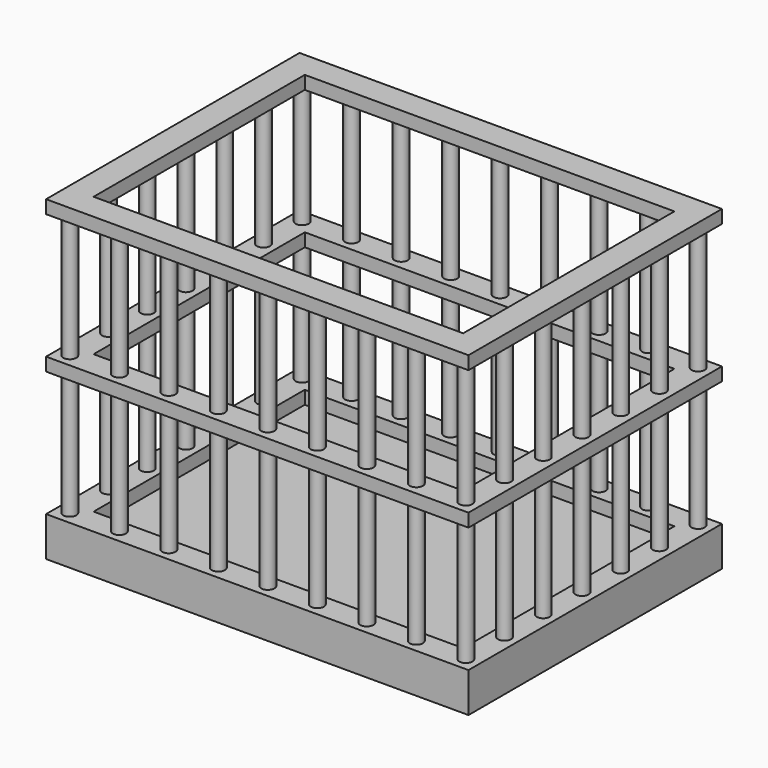
from build123d import *

# Parameters (mm, degrees)
F0_W     = 101.6
F0_H     = 76.2
F0_W_2   = 88.9
F0_H_2   = 63.5
F1_DEPTH = 1.5875
F2_R     = 1.5875
F3_DEPTH = 31.75
F4_W     = 101.6
F4_H     = 76.2
F4_W_2   = 88.9
F4_H_2   = 63.5
F5_DEPTH = 3.175
F6_W     = 101.6
F6_H     = 76.2
F6_W_2   = 88.9
F6_H_2   = 63.5
F7_DEPTH = 3.175
F8_W     = 101.6
F8_H     = 76.2
F9_DEPTH = 6.35


with BuildPart() as f1:
    # F0 (on Top) → F1 (new body, symmetric)
    with BuildSketch(Plane.XY):
        with Locations((-50.8, 38.1)):
            Rectangle(F0_W, F0_H)
        with Locations((-50.8, 38.1)):
            Rectangle(F0_W_2, F0_H_2, mode=Mode.SUBTRACT)
    extrude(amount=F1_DEPTH, both=True)

    # F2 (on Top) → F3 (join, symmetric)
    with BuildSketch(Plane.XY):
        with Locations((-98.425, 3.175)):
            Circle(F2_R)
        with Locations((-86.51875, 3.175)):
            Circle(F2_R)
        with Locations((-74.6125, 3.175)):
            Circle(F2_R)
        with Locations((-38.89375, 73.025)):
            Circle(F2_R)
        with Locations((-98.425, 26.458333)):
            Circle(F2_R)
        with Locations((-98.425, 14.816667)):
            Circle(F2_R)
        with Locations((-62.70625, 73.025)):
            Circle(F2_R)
        with Locations((-3.175, 49.741667)):
            Circle(F2_R)
        with Locations((-3.175, 61.383333)):
            Circle(F2_R)
        with Locations((-3.175, 73.025)):
            Circle(F2_R)
        with Locations((-15.08125, 73.025)):
            Circle(F2_R)
        with Locations((-50.8, 3.175)):
            Circle(F2_R)
        with Locations((-62.70625, 3.175)):
            Circle(F2_R)
        with Locations((-26.9875, 73.025)):
            Circle(F2_R)
        with Locations((-3.175, 14.816667)):
            Circle(F2_R)
        with Locations((-3.175, 26.458333)):
            Circle(F2_R)
        with Locations((-3.175, 38.1)):
            Circle(F2_R)
        with Locations((-3.175, 3.175)):
            Circle(F2_R)
        with Locations((-15.08125, 3.175)):
            Circle(F2_R)
        with Locations((-26.9875, 3.175)):
            Circle(F2_R)
        with Locations((-38.89375, 3.175)):
            Circle(F2_R)
        with Locations((-98.425, 49.741667)):
            Circle(F2_R)
        with Locations((-74.6125, 73.025)):
            Circle(F2_R)
        with Locations((-98.425, 38.1)):
            Circle(F2_R)
        with Locations((-50.8, 73.025)):
            Circle(F2_R)
        with Locations((-98.425, 73.025)):
            Circle(F2_R)
        with Locations((-86.51875, 73.025)):
            Circle(F2_R)
        with Locations((-98.425, 61.383333)):
            Circle(F2_R)
    extrude(amount=F3_DEPTH, both=True)

    # F4 (on face) → F5 (join)
    with BuildSketch(Plane.XY.offset(31.75)):
        with Locations((-50.8, 38.1)):
            Rectangle(F4_W, F4_H)
        with Locations((-50.8, 38.1)):
            Rectangle(F4_W_2, F4_H_2, mode=Mode.SUBTRACT)
    extrude(amount=F5_DEPTH)

    # F6 (on face) → F7 (join)
    with BuildSketch(Plane(origin=(0, 0, -31.75), x_dir=(1, 0, 0), z_dir=(0, 0, -1))):
        with Locations((-50.8, -38.1)):
            Rectangle(F6_W, F6_H)
        with Locations((-50.8, -38.1)):
            Rectangle(F6_W_2, F6_H_2, mode=Mode.SUBTRACT)
    extrude(amount=F7_DEPTH)

    # F8 (on face) → F9 (join)
    with BuildSketch(Plane(origin=(0, 0, -34.925), x_dir=(1, 0, 0), z_dir=(0, 0, -1))):
        with Locations((-50.8, -38.1)):
            Rectangle(F8_W, F8_H)
    extrude(amount=F9_DEPTH)


solid = f1.part
